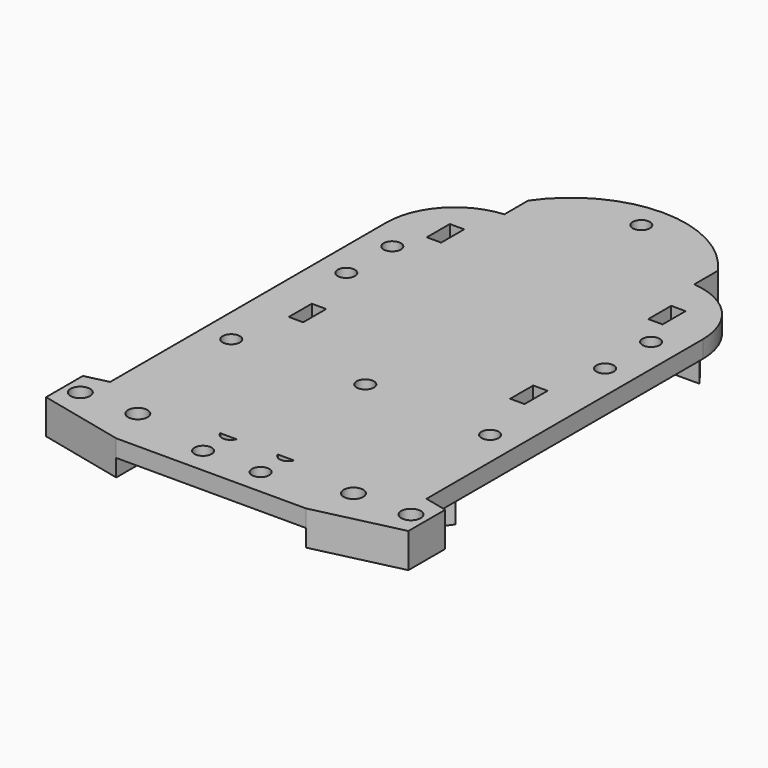
from build123d import *

# Parameters (mm, degrees)
SKETCH093_R            = 1.5
PAD070_DEPTH           = 100
CYLINDER003_R          = 6
CYLINDER003_DEPTH      = 80
CYLINDER003_ROLL_ANGLE = -90
CYLINDER004_R          = 18
CYLINDER004_DEPTH      = 52.25
CYLINDER004_ROLL_ANGLE = -90
CHAMFER005_SIZE        = 3
SKETCH060_W            = 30
SKETCH060_H            = 2
PAD043_DEPTH           = 100
ARRAY001_Y_COUNT       = 15
ARRAY001_Y_PITCH       = 7
SKETCH059_W            = 20.84431
SKETCH059_H            = 42
PAD042_DEPTH           = 10
SKETCH062_R            = 1.7
PAD045_DEPTH           = 40
PAD044_DEPTH           = 13
PAD068_DEPTH           = 6
SKETCH090_R            = 1.7
PAD067_DEPTH           = 100
SKETCH089_R            = 1.5
PAD066_DEPTH           = 3
PAD065_DEPTH           = 3
SKETCH092_R            = 1.5
SKETCH092_W            = 2.5
SKETCH092_H            = 5
PAD069_DEPTH           = 3


with BuildPart() as pad070:
    # Sketch093 → Pad070 (new body)
    with BuildSketch(Plane.XY):
        with Locations((0, 86)):
            Circle(SKETCH093_R)
        with Locations((0, 26)):
            Circle(SKETCH093_R)
    extrude(amount=PAD070_DEPTH)


with BuildPart() as obj1:
    # Cylinder003 → Cylinder003 (new body)
    with BuildSketch(Plane.XY):
        Circle(CYLINDER003_R)
    extrude(amount=CYLINDER003_DEPTH)


with BuildPart() as obj1_1:
    # Cylinder003 roll: moved
    add(obj1.part.rotate(Axis((0, 0, 0), (1, 0, 0)), CYLINDER003_ROLL_ANGLE))


with BuildPart() as obj1_2:
    # Cylinder003 placement: moved
    add(obj1_1.part)


with BuildPart() as motorcutout:
    # Cylinder004 → Cylinder004 (new body)
    with BuildSketch(Plane.XY):
        Circle(CYLINDER004_R)
    extrude(amount=CYLINDER004_DEPTH)


with BuildPart() as motorcutout_1:
    # Cylinder004 roll: moved
    add(motorcutout.part.rotate(Axis((0, 0, 0), (1, 0, 0)), CYLINDER004_ROLL_ANGLE))


with BuildPart() as motorcutout_2:
    # Cylinder004 placement: moved
    add(motorcutout_1.part.moved(Location((0, 30, 0))))

    # Chamfer005
    chamfer005_edges = [motorcutout_2.edges().sort_by_distance(p)[0] for p in [
        (-18, 30, 0),
        (-18, 82.25, 0),
    ]]
    chamfer(chamfer005_edges, length=CHAMFER005_SIZE)

    # Fusion004012: union obj1
    add(obj1_2.part)


with BuildPart() as fincutout:
    # Sketch060 → Pad043 (new body)
    with BuildSketch(Plane.XY):
        with Locations((0, 1)):
            Rectangle(SKETCH060_W, SKETCH060_H)
    extrude(amount=PAD043_DEPTH)

    # Array001 Y: FinCutout ×15


with BuildPart() as fincutout_1:
    add(fincutout.part)
    with Locations(*[(0, i * ARRAY001_Y_PITCH, 0) for i in range(1, ARRAY001_Y_COUNT)]):
        add(fincutout.part)


with BuildPart() as fincutout_2:
    # Array001 placement: moved
    add(fincutout_1.part.moved(Location((0, 2.5, 0))))


with BuildPart() as motormountfins:
    # Sketch059 → Pad042 (new body)
    with BuildSketch(Plane.XY.offset(20)):
        with Locations((0, 56)):
            Rectangle(SKETCH059_W, SKETCH059_H)
    extrude(amount=-PAD042_DEPTH)

    # Cut007012: cut FinCutout
    add(fincutout_2.part, mode=Mode.SUBTRACT)

    # Cut007013: cut MotorCutout
    add(motorcutout_2.part, mode=Mode.SUBTRACT)


with BuildPart() as motorscrewcutouts:
    # Sketch062 → Pad045 (new body)
    with BuildSketch(Plane.XZ):
        with Locations((-5.773925, 9.945441)):
            Circle(SKETCH062_R)
        with Locations((5.726042, 9.973086)):
            Circle(SKETCH062_R)
    extrude(amount=-PAD045_DEPTH)


with BuildPart() as motormountendcaps:
    # Sketch061 → Pad044 (new body)
    with BuildSketch(Plane.XY.offset(20)):
        with BuildLine():
            ThreePointArc((12.5, 83), (0, 89.708438), (-12.5, 83))
            Line((-12.5, 83), (12.5, 83))
        make_face()
        with BuildLine():
            Line((-12.5, 30), (12.5, 30))
            ThreePointArc((-12.5, 30), (0, 23.291562), (12.5, 30))
        make_face()
    extrude(amount=-PAD044_DEPTH)

    # Cut007015: cut MotorScrewCutouts
    add(motorscrewcutouts.part, mode=Mode.SUBTRACT)


with BuildPart() as pad068:
    # Sketch091 → Pad068 (new body)
    with BuildSketch(Plane.XY.offset(26)):
        with BuildLine():
            Line((-16.5, 15), (16.5, 15))
            Line((16.5, 15), (16.5, 82))
            ThreePointArc((16.5, 82), (0, 90.697345), (-16.5, 82))
            Line((-16.5, 82), (-16.5, 15))
        make_face()
    extrude(amount=-PAD068_DEPTH)


with BuildPart() as mountscrewcutouts:
    # Sketch090 → Pad067 (new body)
    with BuildSketch(Plane.XY):
        with Locations((28.75, 0)):
            Circle(SKETCH090_R)
        with Locations((18.75, 0)):
            Circle(SKETCH090_R)
    extrude(amount=PAD067_DEPTH)


with BuildPart() as baseplate:
    # Sketch089 → Pad066 (new body)
    with BuildSketch(Plane(origin=(0, 0, 23), x_dir=(-1, 0, 0), z_dir=(0, 0, 1))):
        Polygon((-31.5, -4), (-31.5, 4), (-16.5, 7.5), (0, 7.5), (0, -7.5), (-16.5, -7.5), align=None)
        with Locations((-5, 3)):
            Circle(SKETCH089_R, mode=Mode.SUBTRACT)
        with Locations((-5, -3)):
            Circle(SKETCH089_R, mode=Mode.SUBTRACT)
    extrude(amount=PAD066_DEPTH)


with BuildPart() as supportplate:
    # Sketch088 → Pad065 (new body)
    with BuildSketch(Plane(origin=(0, 0, 20), x_dir=(-1, 0, 0), z_dir=(0, 0, 1))):
        Polygon((-31.5, -4), (-31.5, 4), (-16.5, 7.5), (-16.5, -7.5), align=None)
    extrude(amount=PAD065_DEPTH)

    # Fusion004026: union BasePlate
    add(baseplate.part)

    # Cut007019005: cut MountScrewCutouts
    add(mountscrewcutouts.part, mode=Mode.SUBTRACT)


with BuildPart() as fusion004027:
    # Part__Mirroring002: instance of SupportPlate
    add(supportplate.part.mirror(Plane(origin=(0, 0, 0), x_dir=(0, -1, 0), z_dir=(1, 0, 0))))

    # Fusion004027: union SupportPlate
    add(supportplate.part)


with BuildPart() as obj2:
    # Sketch092 → Pad069 (new body)
    with BuildSketch(Plane.XY.offset(26)):
        with BuildLine():
            ThreePointArc((-15.611412, 76.887508), (-24.017848, 73.406119), (-27.5, 65))
            Line((-27.5, 2.5), (-27.5, 65))
            Line((27.5, 2.5), (-27.5, 2.5))
            Line((27.5, 65), (27.5, 2.5))
            ThreePointArc((27.5, 65), (24.018229, 73.405738), (15.612492, 76.887508))
            Line((-15.611412, 76.887508), (15.612492, 76.887508))
        make_face()
        with Locations((-22.5, 60)):
            Circle(SKETCH092_R, mode=Mode.SUBTRACT)
        with Locations((-22.5, 50)):
            Circle(SKETCH092_R, mode=Mode.SUBTRACT)
        with Locations((-22.5, 25)):
            Circle(SKETCH092_R, mode=Mode.SUBTRACT)
        with Locations((22.5, 60)):
            Circle(SKETCH092_R, mode=Mode.SUBTRACT)
        with Locations((22.5, 50)):
            Circle(SKETCH092_R, mode=Mode.SUBTRACT)
        with Locations((22.5, 25)):
            Circle(SKETCH092_R, mode=Mode.SUBTRACT)
        with Locations((-19.25, 67.5)):
            Rectangle(SKETCH092_W, SKETCH092_H, mode=Mode.SUBTRACT)
        with Locations((19.25, 67.5)):
            Rectangle(SKETCH092_W, SKETCH092_H, mode=Mode.SUBTRACT)
        with Locations((19.25, 37.5)):
            Rectangle(SKETCH092_W, SKETCH092_H, mode=Mode.SUBTRACT)
        with Locations((-19.25, 37.5)):
            Rectangle(SKETCH092_W, SKETCH092_H, mode=Mode.SUBTRACT)
    extrude(amount=-PAD069_DEPTH)

    # Fusion004028: union Pad068, Fusion004027
    add(pad068.part)
    add(fusion004027.part)

    # Fusion004029: union MotorMountFins, MotorMountEndCaps
    add(motormountfins.part)
    add(motormountendcaps.part)

    # Cut007019006: cut Pad070
    add(pad070.part, mode=Mode.SUBTRACT)


solid = obj2.part
